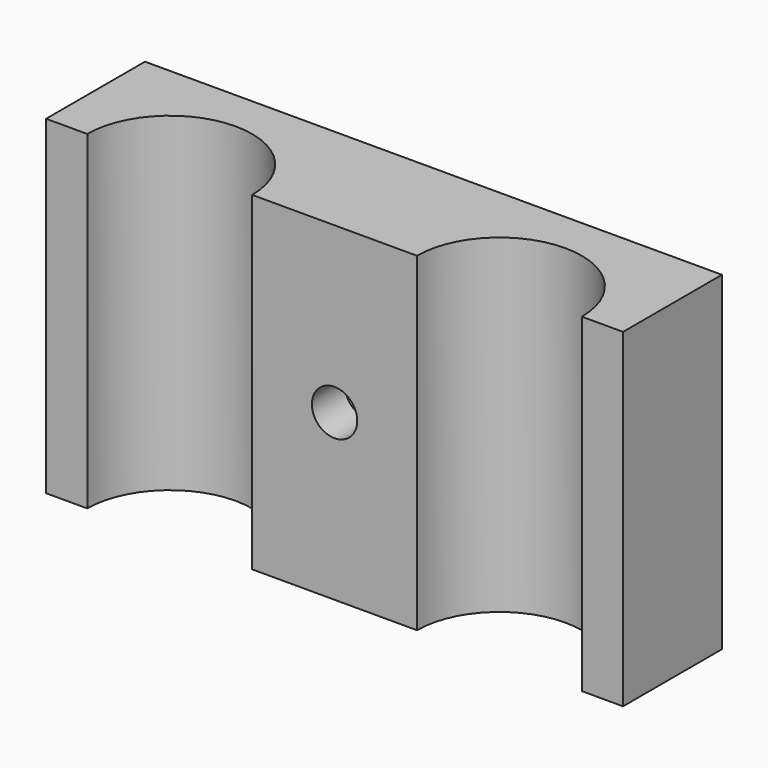
from build123d import *

# Parameters (mm, degrees)
F1_DEPTH = 50.8
F2_R     = 10.16
F3_DEPTH = 12.7
F4_R     = 3.4925
F5_DEPTH = 6.351


with BuildPart() as f1:
    # F0 (on Top) → F1 (new body)
    with BuildSketch(Plane.XY):
        with BuildLine():
            Line((0, 19.05), (0, 0))
            Line((0, 0), (6.35, 0))
            ThreePointArc((6.35, 0), (19.05, 12.7), (31.75, 0))
            Line((31.75, 0), (57.15, 0))
            ThreePointArc((57.15, 0), (69.85, 12.7), (82.55, 0))
            Line((82.55, 0), (88.9, 0))
            Line((88.9, 0), (88.9, 19.05))
            Line((88.9, 19.05), (0, 19.05))
        make_face()
    extrude(amount=F1_DEPTH)

    # F2 (on face) → F3 (cut)
    with BuildSketch(Plane(origin=(0, 19.05, 0), x_dir=(-1, 0, 0), z_dir=(0, 1, 0))):
        with Locations((-44.45, 25.4)):
            Circle(F2_R)
    extrude(amount=-F3_DEPTH, mode=Mode.SUBTRACT)

    # F4 (on face) → F5 (cut, through all)
    with BuildSketch(Plane(origin=(0, 6.35, 0), x_dir=(-1, 0, 0), z_dir=(0, 1, 0))):
        with Locations((-44.45, 25.4)):
            Circle(F4_R)
    extrude(amount=-F5_DEPTH, mode=Mode.SUBTRACT)


solid = f1.part
